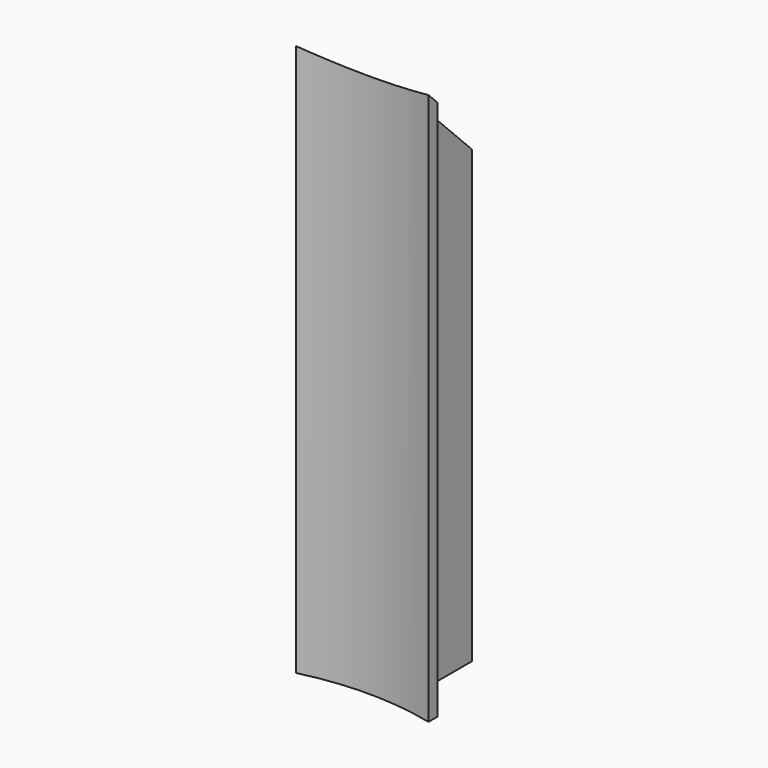
from build123d import *

# Parameters (mm, degrees)
PAD002_DEPTH            = 50
FILLET001_R             = 4
POCKET001_DEPTH         = 8.601
POCKET001_DEPTH_BACK    = 3.401
BODY003_PLACEMENT_ANGLE = 90


with BuildPart() as part:
    # Sketch004 → Pad002 (new body)
    with BuildSketch(Plane.XY):
        with BuildLine():
            ThreePointArc((24.269322, -6), (25, 0), (24.269322, 6))
            Line((24.269322, 6), (25.298221, 6))
            ThreePointArc((25.869673, 2.6), (25.640366, 4.309482), (25.298221, 6))
            Line((25.869673, 2.6), (33.451654, 2.6))
            Line((33.451654, 2.6), (33.451654, 1.6))
            Line((33.451654, 1.6), (26.451654, 1.6))
            Line((26.451654, 1.6), (26.451654, -1.6))
            Line((26.451654, -1.6), (33.451654, -1.6))
            Line((33.451654, -1.6), (33.451654, -2.6))
            Line((33.451654, -2.6), (25.869673, -2.6))
            ThreePointArc((25.298221, -6), (25.640366, -4.309482), (25.869673, -2.6))
            Line((24.269322, -6), (25.298221, -6))
        make_face()
    extrude(amount=PAD002_DEPTH)

    # Fillet001
    fillet001_edges = [part.edges().sort_by_distance(p)[0] for p in [
        (25.869673, -2.6, 25),
        (25.869673, 2.6, 25),
    ]]
    fillet(fillet001_edges, radius=FILLET001_R)

    # Sketch005 (on Face15 of Fillet001) → Pocket001 (cut, two sides)
    with BuildSketch(Plane.XZ.offset(2.6)) as pocket001_sk:
        Polygon((33.451654, 50), (33.451654, 40.817668), (24.269322, 50), align=None)
    extrude(amount=-POCKET001_DEPTH, mode=Mode.SUBTRACT)
    extrude(pocket001_sk.sketch, amount=POCKET001_DEPTH_BACK, mode=Mode.SUBTRACT)


with BuildPart() as part_1:
    # Body003 placement: moved
    add(part.part.moved(Location((0, 15, 0))).rotate(Axis((0, 15, 0), (0, 0, 1)), BODY003_PLACEMENT_ANGLE))


solid = part_1.part
